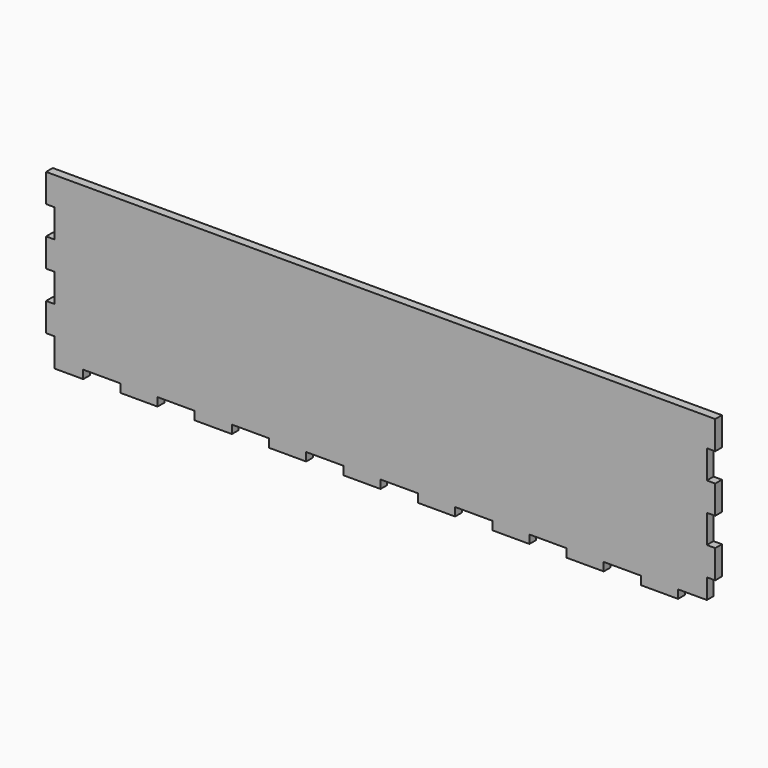
from build123d import *

# Parameters (mm, degrees)
F1_DEPTH = 3


with BuildPart() as f1:
    # F0 (on Front) → F1 (new body)
    with BuildSketch(Plane.XZ):
        Polygon((93.15, -13.522226), (106.45, -13.522226), (106.45, -10.522226), (116.75, -10.522226), (116.75, -3.352226), (119.75, -3.352226), (119.75, 6.813774), (116.75, 6.813774), (116.75, 16.979774), (119.75, 16.979774), (119.75, 27.145774), (116.75, 27.145774), (116.75, 37.311774), (119.75, 37.311774), (119.75, 47.477774), (-119.75, 47.477774), (-119.75, 37.311774), (-116.75, 37.311774), (-116.75, 27.145774), (-119.75, 27.145774), (-119.75, 16.979774), (-116.75, 16.979774), (-116.75, 6.813774), (-119.75, 6.813774), (-119.75, -3.352226), (-116.75, -3.352226), (-116.75, -13.522226), (-106.45, -13.522226), (-106.45, -10.522226), (-93.15, -10.522226), (-93.15, -13.522226), (-79.85, -13.522226), (-79.85, -10.522226), (-66.55, -10.522226), (-66.55, -13.522226), (-53.25, -13.522226), (-53.25, -10.522226), (-39.95, -10.522226), (-39.95, -13.522226), (-26.65, -13.522226), (-26.65, -10.522226), (-13.35, -10.522226), (-13.35, -13.522226), (-0.05, -13.522226), (-0.05, -10.522226), (0.05, -10.522226), (13.35, -10.522226), (13.35, -13.522226), (26.65, -13.522226), (26.65, -10.522226), (39.95, -10.522226), (39.95, -13.522226), (53.25, -13.522226), (53.25, -10.522226), (66.55, -10.522226), (66.55, -13.522226), (79.85, -13.522226), (79.85, -10.522226), (93.15, -10.522226), align=None)
    extrude(amount=F1_DEPTH)


solid = f1.part
